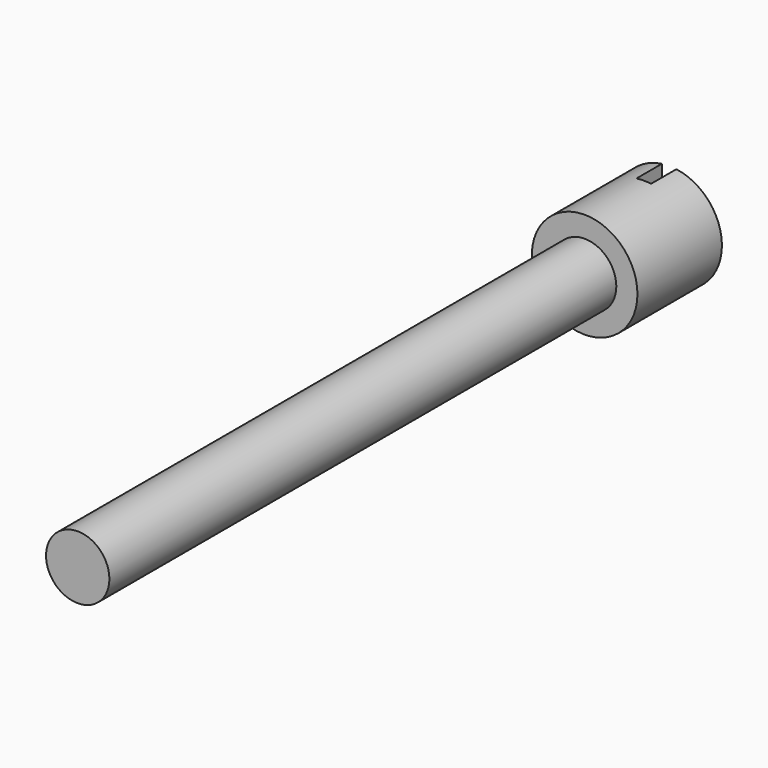
from build123d import *

# Parameters (mm, degrees)
F0_R     = 3
F1_DEPTH = 60
F2_R     = 5
F3_DEPTH = 10
F4_W     = 1.377778
F4_H     = 10
F5_DEPTH = 3


with BuildPart() as f1:
    # F0 (on Front) → F1 (new body)
    with BuildSketch(Plane.XZ):
        Circle(F0_R)
    extrude(amount=F1_DEPTH)

    # F2 (on Front) → F3 (join)
    with BuildSketch(Plane.XZ):
        Circle(F2_R)
    extrude(amount=-F3_DEPTH)

    # F4 (on face) → F5 (cut)
    with BuildSketch(Plane(origin=(0, 10, 0), x_dir=(-1, 0, 0), z_dir=(0, 1, 0))):
        Rectangle(F4_W, F4_H)
    extrude(amount=-F5_DEPTH, mode=Mode.SUBTRACT)


solid = f1.part
